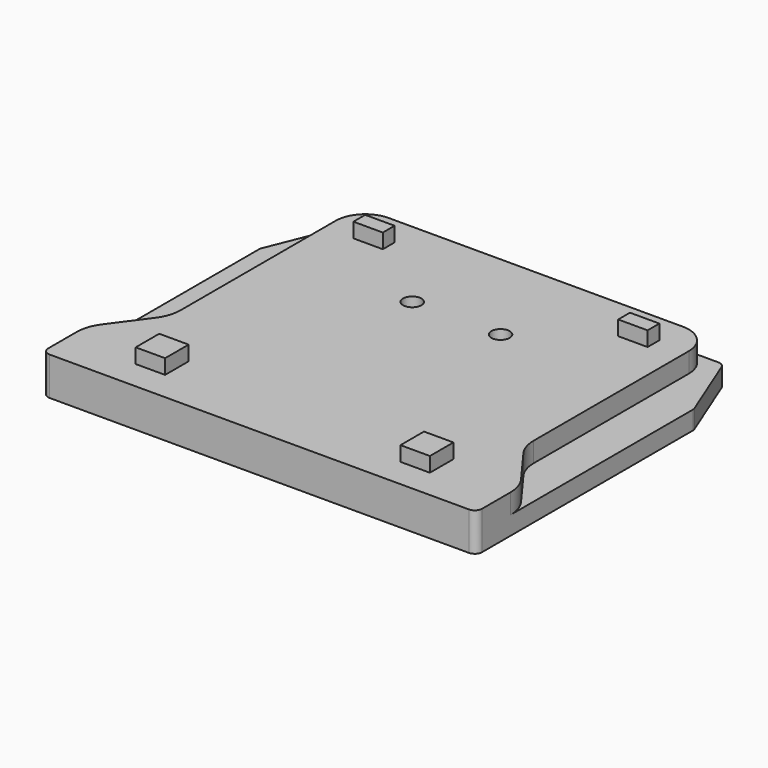
from build123d import *

# Parameters (mm, degrees)
F1_DEPTH  = 2.5
F3_DEPTH  = 2.7
F4_R      = 1
F5_R      = 5
F6_W      = 4
F6_H      = 2
F6_H_2    = 4
F7_DEPTH  = 2
F8_R      = 1.25
F9_DEPTH  = 6
F10_R     = 2.25
F11_DEPTH = 2.5


with BuildPart() as f1:
    # F0 (on Top) → F1 (new body)
    with BuildSketch(Plane.XY):
        Polygon((55, 0), (4, 0), (0, -10), (0, -47), (59, -47), (59, -10), align=None)
    extrude(amount=F1_DEPTH)

    # F2 (on face) → F3 (join)
    with BuildSketch(Plane.XY.offset(2.5)):
        with BuildLine():
            Line((0, -39.5), (0, -47))
            Line((0, -47), (59, -47))
            Line((59, -47), (59, -39.5))
            Line((59, -39.5), (53.5, -32))
            Line((53.5, -32), (53.5, -4))
            ThreePointArc((53.5, -4), (52.3284271247, -1.1715728753), (49.5, 0))
            Line((49.5, 0), (9.5, 0))
            ThreePointArc((9.5, 0), (6.6715728753, -1.1715728753), (5.5, -4))
            Line((5.5, -4), (5.5, -32))
            Line((5.5, -32), (0, -39.5))
        make_face()
    extrude(amount=F3_DEPTH)

    # F4
    f4_edges = [f1.edges().sort_by_distance(p)[0] for p in [
        (0, -47, 2.6),
        (59, -47, 2.6),
        (4, 0, 1.25),
        (55, 0, 1.25),
        (59, -10, 1.25),
        (0, -10, 1.25),
    ]]
    fillet(f4_edges, radius=F4_R)

    # F5
    f5_edges = [f1.edges().sort_by_distance(p)[0] for p in [
        (0, -39.5, 3.85),
        (59, -39.5, 3.85),
        (53.5, -32, 3.85),
        (5.5, -32, 3.85),
    ]]
    fillet(f5_edges, radius=F5_R)

    # F6 (on face) → F7 (join)
    with BuildSketch(Plane.XY.offset(5.2)):
        with Locations((11.5, -5)):
            Rectangle(F6_W, F6_H)
        with Locations((11.5, -41)):
            Rectangle(F6_W, F6_H_2)
        with Locations((47.5, -5)):
            Rectangle(F6_W, F6_H)
        with Locations((47.5, -41)):
            Rectangle(F6_W, F6_H_2)
    extrude(amount=F7_DEPTH)

    # F8 (on face) → F9 (cut)
    with BuildSketch(Plane.XY.offset(5.2)):
        with Locations((23.5, -13.5)):
            Circle(F8_R)
        with Locations((35.5, -13.5)):
            Circle(F8_R)
    extrude(amount=-F9_DEPTH, mode=Mode.SUBTRACT)

    # F10 (on face) → F11 (cut)
    with BuildSketch(Plane.XY):
        with Locations((35.5, -13.5)):
            Circle(F10_R)
        with Locations((23.5, -13.5)):
            Circle(F10_R)
    extrude(amount=F11_DEPTH, mode=Mode.SUBTRACT)


solid = f1.part
